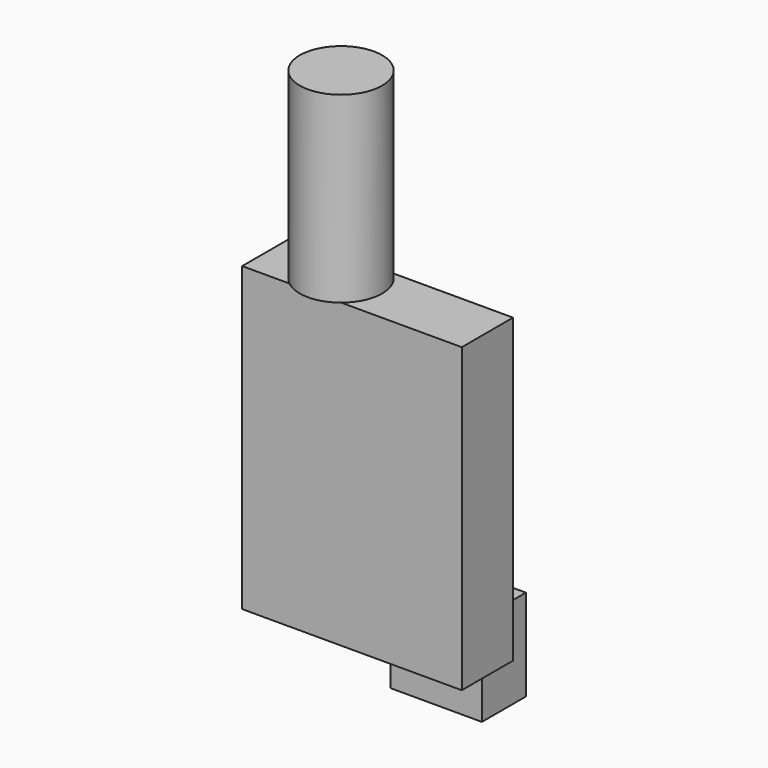
from build123d import *

# Parameters (mm, degrees)
F0_W     = 10
F0_H     = 5
F1_DEPTH = 7
F2_DEPTH = 3
F3_R     = 4.5
F4_DEPTH = 20
F5_ANGLE = 180


with BuildPart() as f1:
    # F0 (on Front) → F1 (new body)
    with BuildSketch(Plane.XZ):
        Polygon((12, -16.5), (12, 16.5), (-12, 16.5), (-12, -16.5), (-11, -16.5), (-11, -11.5), (-1, -11.5), (-1, -16.5), align=None)
        with Locations((-6, -14)):
            Rectangle(F0_W, F0_H)
    extrude(amount=-F1_DEPTH)

    # F0 (on Front) → F2 (join, symmetric)
    with BuildSketch(Plane.XZ):
        with Locations((-6, -19)):
            Rectangle(F0_W, F0_H)
        with Locations((-6, -14)):
            Rectangle(F0_W, F0_H)
    extrude(amount=F2_DEPTH, both=True)

    # F3 (on face) → F4 (join)
    with BuildSketch(Plane.XY.offset(16.5)):
        with Locations((4, 3.5)):
            Circle(F3_R)
    extrude(amount=F4_DEPTH)


with BuildPart() as f1_1:
    # F5: moved
    add(f1.part.rotate(Axis((4, 3.5, 16.5), (0, 0, -1)), F5_ANGLE))


solid = f1_1.part
